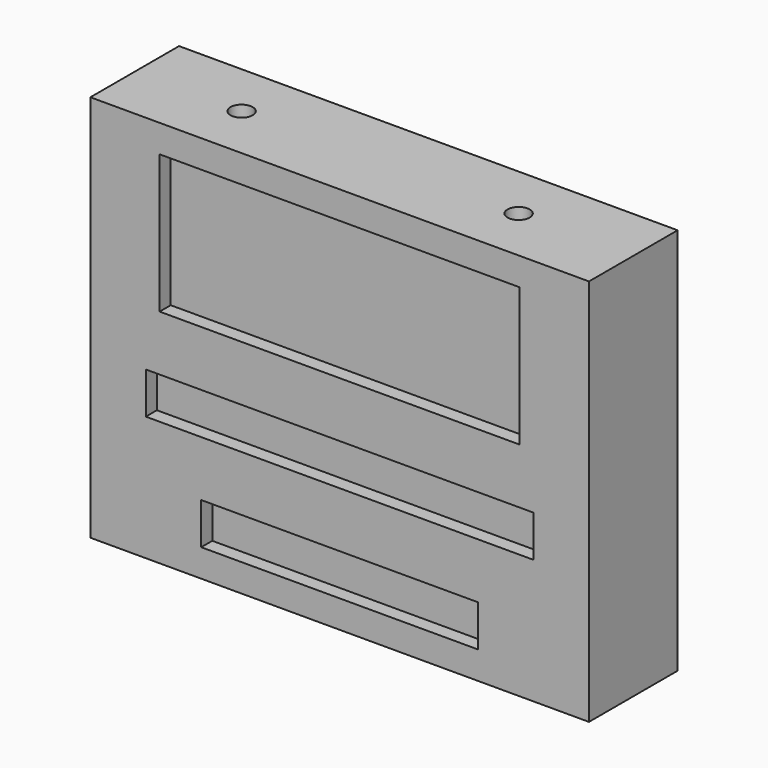
from build123d import *

# Parameters (mm, degrees)
F0_W     = 180
F0_H     = 140
F1_DEPTH = 40
F2_W     = 130
F2_H     = 50
F2_W_2   = 140
F2_H_2   = 15
F2_W_3   = 100
F3_DEPTH = 5
F4_W     = 170
F4_H     = 130
F5_DEPTH = 25
F6_R     = 4
F7_DEPTH = 25


with BuildPart() as f1:
    # F0 (on Front) → F1 (new body)
    with BuildSketch(Plane.XZ):
        Rectangle(F0_W, F0_H)
    extrude(amount=F1_DEPTH)

    # F2 (on face) → F3 (cut)
    with BuildSketch(Plane.XZ.offset(40)):
        with Locations((0, 35)):
            Rectangle(F2_W, F2_H)
        with Locations((0, -17.5)):
            Rectangle(F2_W_2, F2_H_2)
        with Locations((0, -52.5)):
            Rectangle(F2_W_3, F2_H_2)
    extrude(amount=-F3_DEPTH, mode=Mode.SUBTRACT)

    # F4 (on face) → F5 (cut)
    with BuildSketch(Plane(origin=(0, 0, 0), x_dir=(-1, 0, 0), z_dir=(0, 1, 0))):
        Rectangle(F4_W, F4_H)
    extrude(amount=-F5_DEPTH, mode=Mode.SUBTRACT)

    # F6 (on face) → F7 (cut)
    with BuildSketch(Plane.XY.offset(70)):
        with Locations((48.596286, -20)):
            Circle(F6_R)
        with Locations((-51.403714, -20)):
            Circle(F6_R)
    extrude(amount=-F7_DEPTH, mode=Mode.SUBTRACT)


solid = f1.part
